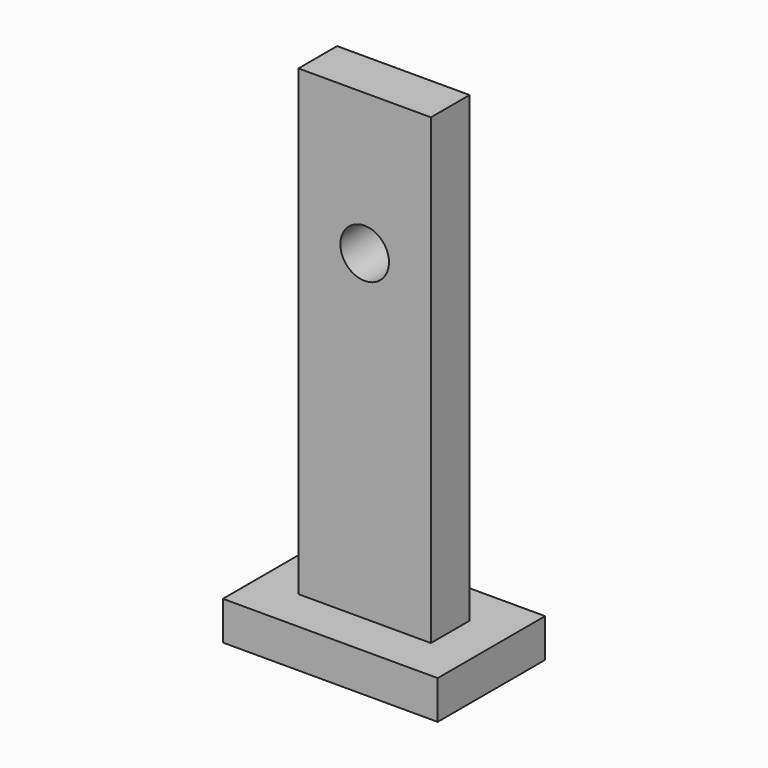
from build123d import *

# Parameters (mm, degrees)
F0_W     = 35.363536
F0_H     = 22.10221
F1_DEPTH = 6.35
F2_W     = 21.807512
F2_H     = 7.956796
F3_DEPTH = 76.2
F4_R     = 4
F5_DEPTH = 15.030503


with BuildPart() as f1:
    # F0 (on Top) → F1 (new body)
    with BuildSketch(Plane.XY):
        Rectangle(F0_W, F0_H)
    extrude(amount=F1_DEPTH)


with BuildPart() as f3:
    # F2 (on face) → F3 (new body)
    with BuildSketch(Plane.XY.offset(6.35)):
        Rectangle(F2_W, F2_H)
    extrude(amount=F3_DEPTH)

    # F4 (on face) → F5 (cut, through all)
    with BuildSketch(Plane.XZ.offset(3.978398)):
        with Locations((0, 59.301462)):
            Circle(F4_R)
    extrude(amount=-F5_DEPTH, mode=Mode.SUBTRACT)


solid = Compound([f1.part, f3.part])
